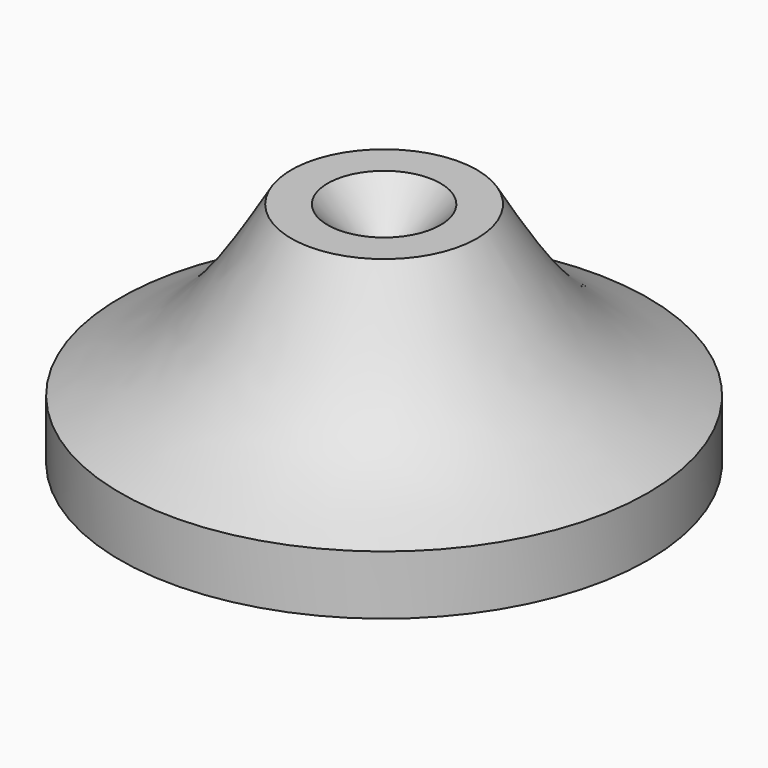
from build123d import *


with BuildPart() as f1:
    # F0 (on Front) → F1 (revolve)
    with BuildSketch(Plane.XZ):
        with BuildLine():
            Line((1.1120373383, 2.9860949144), (0, 1.7837738851))
            Line((0, 1.7837738851), (0, -2.618302824))
            Line((0, -2.618302824), (2.3352985736, -2.618302824))
            Line((2.3352985736, -2.618302824), (5.2008014172, -1.4970189659))
            Line((5.2008014172, -1.4970189659), (5.2008014172, -0.3307815059))
            add(Edge.make_bspline(
                [(5.2008014172, -0.3307815059), (4.5845641853, -0.0437571429), (3.2537292548, 0.5761048653), (2.3273124691, 2.1441344811), (1.829868881, 2.9860949144)],
                knots=[0, 0, 0, 0, 0.4630455798, 1, 1, 1, 1], degree=3))
            Line((1.829868881, 2.9860949144), (1.1120373383, 2.9860949144))
        make_face()
    revolve(axis=Axis((0, 0, -0.4172644694), (0, 0, -1)))


solid = f1.part
